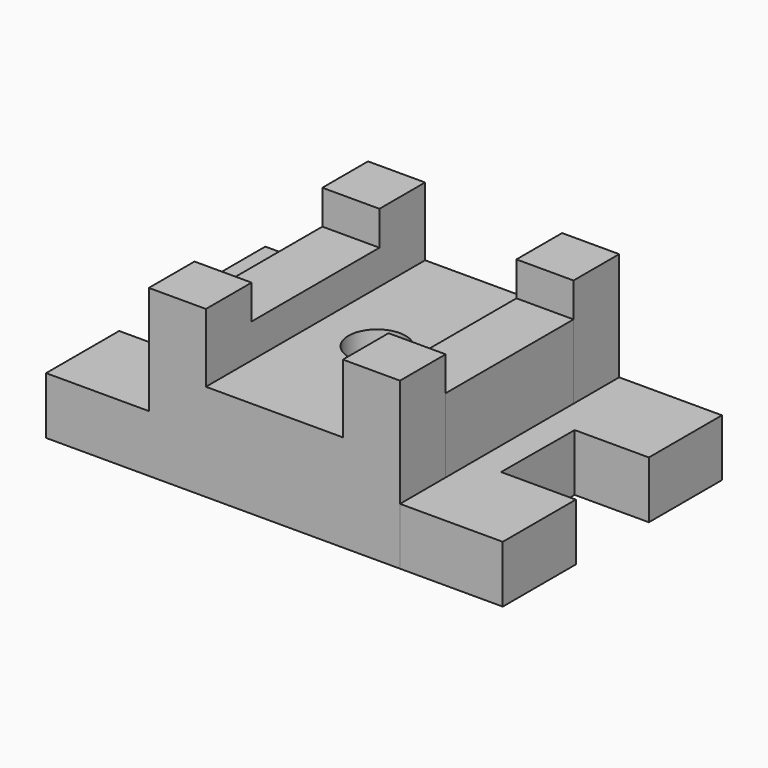
from build123d import *

# Parameters (mm, degrees)
F0_W     = 31.75
F0_H     = 31.75
F0_R     = 15.875
F1_DEPTH = 31.75
F0_H_2   = 88.9
F2_DEPTH = 31.75
F3_DEPTH = 53.975
F4_DEPTH = 73.025
F5_DEPTH = 92.075


with BuildPart() as f1:
    # F0 (on Top) → F1 (new body)
    with BuildSketch(Plane.XY):
        Polygon((86.00488, 76.2), (73.703326, 76.2), (73.705206, 44.45), (73.710469, -44.44812), (73.712349, -76.2), (130.862349, -76.199222), (130.862349, -25.399222), (89.297151, -25.399222), (89.578326, 25.4), (130.853326, 25.4), (130.853326, 76.2), align=None)
        Polygon((-65.987651, 76.2), (-85.44512, 76.2), (-123.137651, 76.2), (-123.137651, 25.4), (-85.725, 25.4), (-85.725, -25.4), (-123.137651, -25.4), (-123.137651, -76.2), (-85.725, -76.2), (-65.987651, -76.2), (-65.987651, -44.45), (-65.987651, 44.45), align=None)
        with Locations((-50.112651, -60.325)):
            Rectangle(F0_W, F0_H)
        Polygon((73.710469, -44.44812), (41.953326, -44.45), (41.953326, -76.2), (73.712349, -76.2), align=None)
        Polygon((73.703326, 76.2), (41.953326, 76.2), (41.953326, 44.45), (73.705206, 44.45), align=None)
        Polygon((41.953326, 76.2), (-34.237651, 76.2), (-34.237651, 44.45), (-34.237651, -44.45), (-34.237651, -76.2), (41.953326, -76.2), (41.953326, -44.45), (41.953326, 44.45), align=None)
        Circle(F0_R, mode=Mode.SUBTRACT)
        with Locations((-50.112651, 60.325)):
            Rectangle(F0_W, F0_H)
    extrude(amount=F1_DEPTH)

    # F0 (on Top) → F2 (join)
    with BuildSketch(Plane.XY):
        with Locations((-50.112651, 0)):
            Rectangle(F0_W, F0_H_2)
        with Locations((-50.112651, 60.325)):
            Rectangle(F0_W, F0_H)
        Polygon((-65.987651, 76.2), (-85.44512, 76.2), (-123.137651, 76.2), (-123.137651, 25.4), (-85.725, 25.4), (-85.725, -25.4), (-123.137651, -25.4), (-123.137651, -76.2), (-85.725, -76.2), (-65.987651, -76.2), (-65.987651, -44.45), (-65.987651, 44.45), align=None)
        with Locations((-50.112651, -60.325)):
            Rectangle(F0_W, F0_H)
        Polygon((41.953326, 76.2), (-34.237651, 76.2), (-34.237651, 44.45), (-34.237651, -44.45), (-34.237651, -76.2), (41.953326, -76.2), (41.953326, -44.45), (41.953326, 44.45), align=None)
        Circle(F0_R, mode=Mode.SUBTRACT)
        Polygon((73.705206, 44.45), (41.953326, 44.45), (41.953326, -44.45), (73.710469, -44.44812), align=None)
        Polygon((73.710469, -44.44812), (41.953326, -44.45), (41.953326, -76.2), (73.712349, -76.2), align=None)
        Polygon((86.00488, 76.2), (73.703326, 76.2), (73.705206, 44.45), (73.710469, -44.44812), (73.712349, -76.2), (130.862349, -76.199222), (130.862349, -25.399222), (89.297151, -25.399222), (89.578326, 25.4), (130.853326, 25.4), (130.853326, 76.2), align=None)
        Polygon((73.703326, 76.2), (41.953326, 76.2), (41.953326, 44.45), (73.705206, 44.45), align=None)
    extrude(amount=F2_DEPTH)

    # F0 (on Top) → F3 (join)
    with BuildSketch(Plane.XY):
        with Locations((-50.112651, 60.325)):
            Rectangle(F0_W, F0_H)
        with Locations((-50.112651, 0)):
            Rectangle(F0_W, F0_H_2)
        with Locations((-50.112651, -60.325)):
            Rectangle(F0_W, F0_H)
        Polygon((41.953326, 76.2), (-34.237651, 76.2), (-34.237651, 44.45), (-34.237651, -44.45), (-34.237651, -76.2), (41.953326, -76.2), (41.953326, -44.45), (41.953326, 44.45), align=None)
        Circle(F0_R, mode=Mode.SUBTRACT)
        Polygon((73.705206, 44.45), (41.953326, 44.45), (41.953326, -44.45), (73.710469, -44.44812), align=None)
        Polygon((73.710469, -44.44812), (41.953326, -44.45), (41.953326, -76.2), (73.712349, -76.2), align=None)
        Polygon((73.703326, 76.2), (41.953326, 76.2), (41.953326, 44.45), (73.705206, 44.45), align=None)
    extrude(amount=F3_DEPTH)

    # F0 (on Top) → F4 (join)
    with BuildSketch(Plane.XY):
        with Locations((-50.112651, -60.325)):
            Rectangle(F0_W, F0_H)
        with Locations((-50.112651, 0)):
            Rectangle(F0_W, F0_H_2)
        with Locations((-50.112651, 60.325)):
            Rectangle(F0_W, F0_H)
        Polygon((73.703326, 76.2), (41.953326, 76.2), (41.953326, 44.45), (73.705206, 44.45), align=None)
        Polygon((73.705206, 44.45), (41.953326, 44.45), (41.953326, -44.45), (73.710469, -44.44812), align=None)
        Polygon((73.710469, -44.44812), (41.953326, -44.45), (41.953326, -76.2), (73.712349, -76.2), align=None)
    extrude(amount=F4_DEPTH)

    # F0 (on Top) → F5 (join)
    with BuildSketch(Plane.XY):
        with Locations((-50.112651, 60.325)):
            Rectangle(F0_W, F0_H)
        with Locations((-50.112651, -60.325)):
            Rectangle(F0_W, F0_H)
        Polygon((73.710469, -44.44812), (41.953326, -44.45), (41.953326, -76.2), (73.712349, -76.2), align=None)
        Polygon((73.703326, 76.2), (41.953326, 76.2), (41.953326, 44.45), (73.705206, 44.45), align=None)
    extrude(amount=F5_DEPTH)


solid = f1.part
